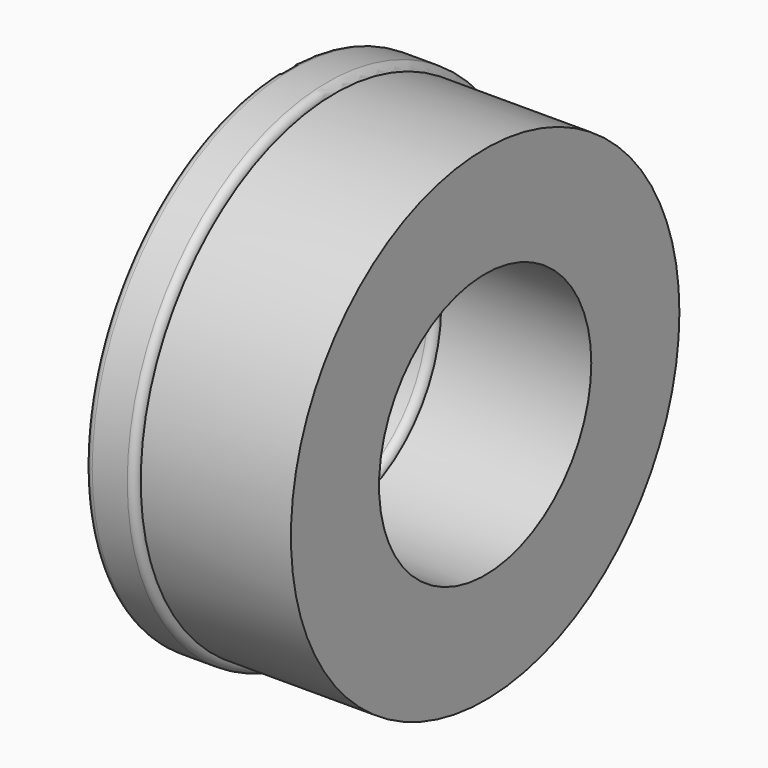
from build123d import *

# Parameters (mm, degrees)
F1_FACE_R   = 4.85
F1_FACE_R_2 = 2.65
F2_DEPTH    = 3


with BuildPart() as f1:
    # F0 (on Top) → F1 (revolve)
    with BuildSketch(Plane.XY):
        with BuildLine():
            Line((0.35, 5), (-0.35, 5))
            ThreePointArc((-0.35, 5), (-0.456066, 4.956066), (-0.5, 4.85))
            Line((-0.5, 4.85), (-0.5, 2.65))
            ThreePointArc((-0.5, 2.65), (-0.456066, 2.543934), (-0.35, 2.5))
            Line((-0.35, 2.5), (0.35, 2.5))
            ThreePointArc((0.35, 2.5), (0.456066, 2.543934), (0.5, 2.65))
            Line((0.5, 2.65), (0.5, 4.85))
            ThreePointArc((0.5, 4.85), (0.456066, 4.956066), (0.35, 5))
        make_face()
    revolve(axis=Axis((0.25, 0, 0), (1, 0, 0)))

    # F1_face (on face) → F2 (join)
    with BuildSketch(Plane.YZ.offset(0.5)):
        Circle(F1_FACE_R)
        Circle(F1_FACE_R_2, mode=Mode.SUBTRACT)
    extrude(amount=F2_DEPTH)


solid = f1.part
